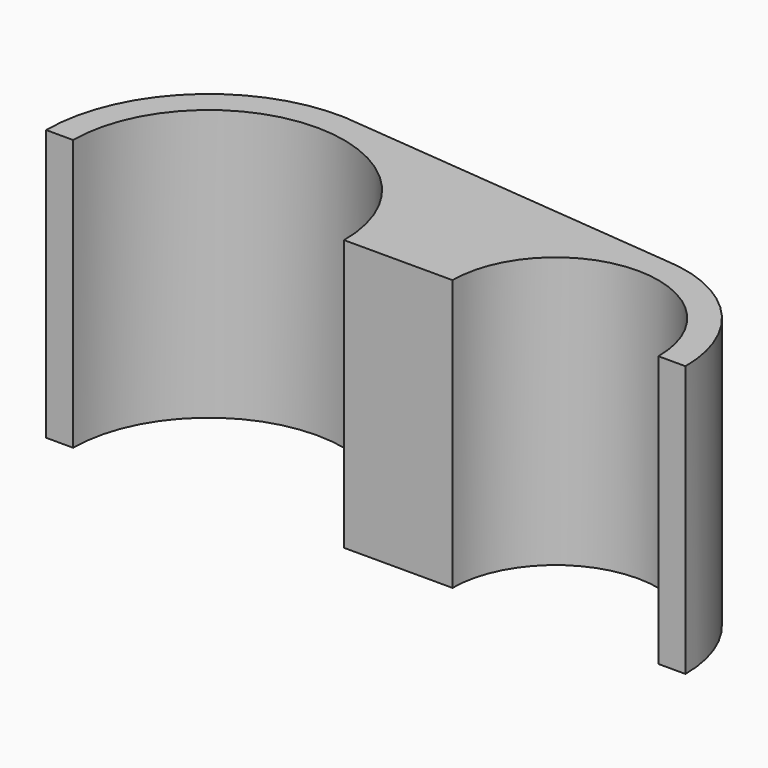
from build123d import *

# Parameters (mm, degrees)
F0_R     = 12.5
F0_R_2   = 9.5
F1_DEPTH = 25
F2_W     = 68.842221
F2_H     = 15.526487
F3_DEPTH = 25


with BuildPart() as f1:
    # F0 (on Top) → F1 (new body)
    with BuildSketch(Plane.XY):
        with BuildLine():
            Line((15.099982, 11.984992), (-15.227959, 14.826929))
            Line((-15.227959, 14.826929), (-16.977903, 14.990911))
            ThreePointArc((-16.977903, 14.990911), (-32.492809, 0.464415), (-17.906726, -14.994485))
            Line((-17.906726, -14.994485), (-14.372817, -14.670403))
            Line((-14.372817, -14.670403), (14.782548, -11.996673))
            ThreePointArc((14.782548, -11.996673), (26.498949, -0.158824), (15.099982, 11.984992))
        make_face()
        with Locations((-17.5, 0)):
            Circle(F0_R, mode=Mode.SUBTRACT)
        with Locations((14.5, 0)):
            Circle(F0_R_2, mode=Mode.SUBTRACT)
    extrude(amount=F1_DEPTH)

    # F2 (on Top) → F3 (cut)
    with BuildSketch(Plane.XY):
        with Locations((-1.820405, -7.763243)):
            Rectangle(F2_W, F2_H)
    extrude(amount=F3_DEPTH, mode=Mode.SUBTRACT)


solid = f1.part
